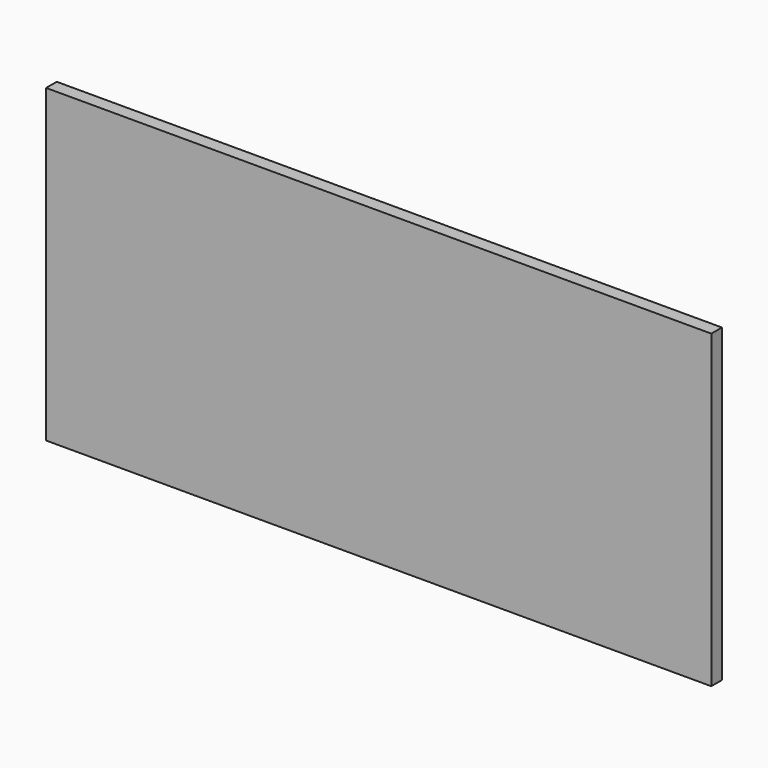
from build123d import *

# Parameters (mm, degrees)
F0_W     = 150
F0_H     = 70
F1_DEPTH = 3
F2_R     = 22.5
F3_DEPTH = 5


with BuildPart() as f1:
    # F0 (on Front) → F1 (new body)
    with BuildSketch(Plane.XZ):
        with Locations((75, 35)):
            Rectangle(F0_W, F0_H)
    extrude(amount=F1_DEPTH)

    # F2 (on face) → F3 (cut)
    with BuildSketch(Plane.XZ.offset(3)):
        with Locations((35, 35)):
            Circle(F2_R)
    extrude(amount=F3_DEPTH, mode=Mode.SUBTRACT)


solid = f1.part
